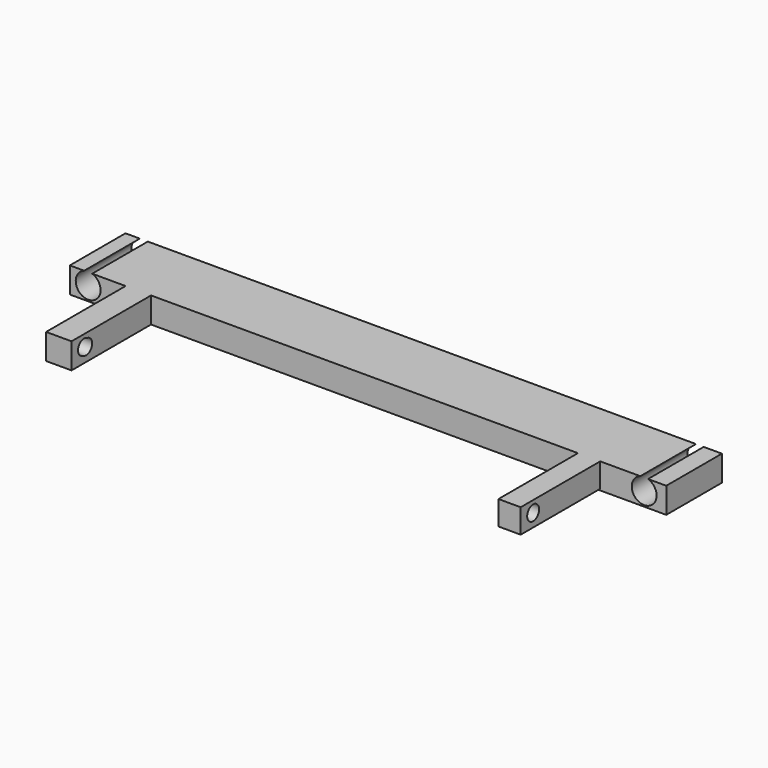
from build123d import *

# Parameters (mm, degrees)
F0_W       = 152.4421870708
F0_H       = 6.5507292747
F3_DEPTH   = 17.78
F4_D       = 6.35
F4_ON_F2_D = 6.35
F6_W       = 5.683042109
F6_H       = 6.1811245978
F7_DEPTH   = 25.4
F5_W       = 6.5025947988
F5_H       = 6.5507292747
F8_DEPTH   = 25.4
F10_D      = 3.81
F10_DEPTH  = 12.7
F10_TIP    = 1.1446394792
F12_D      = 3.81


with BuildPart() as f3:
    # F0 (on Front) → F3 (new body)
    with BuildSketch(Plane.XZ):
        with Locations((9.5233023167, 47.2025945783)):
            Rectangle(F0_W, F0_H)
    extrude(amount=F3_DEPTH)

    # F4 (through all)
    with Locations(Plane(origin=(0, 0, 0), x_dir=(1, 0, 0), z_dir=(0, 1, 0))):
        with Locations((-62.0040521026, -47.4707409739)):
            Hole(F4_D / 2)

    # F4 on F2 (through all)
    with Locations(Plane(origin=(0, 0, 0), x_dir=(1, 0, 0), z_dir=(0, 1, 0))):
        with Locations((80.0990313292, -47.4590882659)):
            Hole(F4_ON_F2_D / 2)

    # F6 (on face) → F7 (join)
    with BuildSketch(Plane.XZ.offset(17.78)):
        with Locations((66.0152845085, 47.3873969167)):
            Rectangle(F6_W, F6_H)
    extrude(amount=F7_DEPTH)

    # F5 (on face) → F8 (join)
    with BuildSketch(Plane.XZ.offset(17.78)):
        with Locations((-49.1894576699, 47.2025945783)):
            Rectangle(F5_W, F5_H)
    extrude(amount=F8_DEPTH)

    # F10
    with Locations(Plane(origin=(-52.4407550693, 0, 0), x_dir=(0, -1, 0), z_dir=(-1, 0, 0))):
        with Locations((38.4867973626, 47.3310947418)):
            Hole(F10_D / 2, depth=F10_DEPTH)
            with Locations((0, 0, -(F10_DEPTH + F10_TIP / 2))):  # 118° drill point
                Cone(0, F10_D / 2, F10_TIP, mode=Mode.SUBTRACT)

    # F12 (through all)
    with Locations(Plane.YZ.offset(68.856805563)):
        with Locations((-39.1976609826, 47.6043485105)):
            Hole(F12_D / 2)


solid = f3.part
